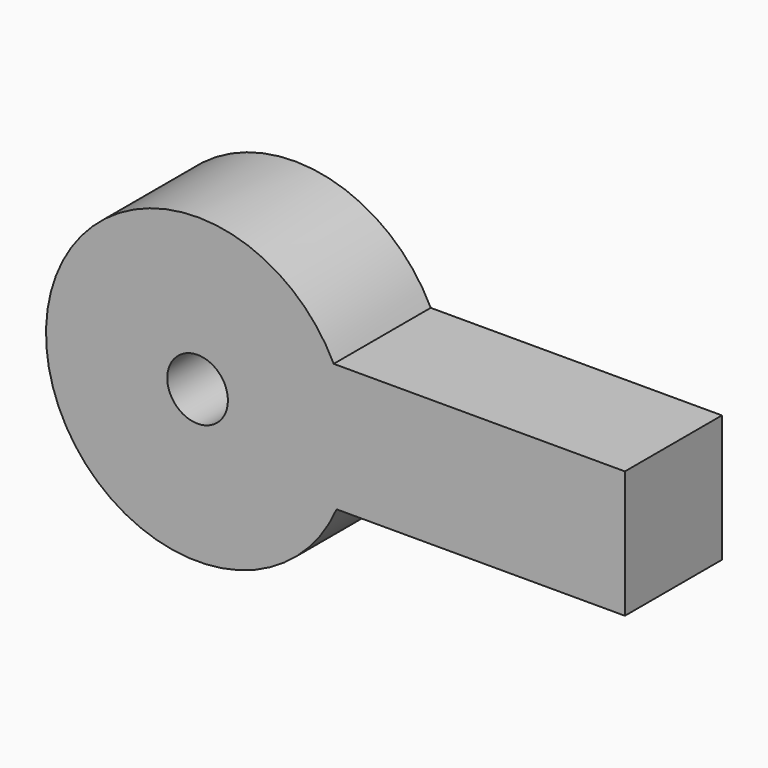
from build123d import *

# Parameters (mm, degrees)
F0_R      = 6.35
F1_DEPTH  = 25.4
F1_FACE_R = 6.35
F2_DEPTH  = 13.97


with BuildPart() as f1:
    # F0 (on Front) → F1 (new body)
    with BuildSketch(Plane.XZ):
        with BuildLine():
            ThreePointArc((29.115278, -12.663454), (31.084342, -6.467318), (31.75, 0))
            ThreePointArc((31.75, 0), (30.930583, 7.166695), (28.514629, 13.963467))
            ThreePointArc((28.514629, 13.963467), (-31.741925, -0.716033), (29.115278, -12.663454))
        make_face()
        Circle(F0_R, mode=Mode.SUBTRACT)
        with BuildLine():
            ThreePointArc((28.514629, 13.963467), (30.930583, 7.166695), (31.75, 0))
            ThreePointArc((31.75, 0), (31.084342, -6.467318), (29.115278, -12.663454))
            Line((29.115278, -12.663454), (89.507588, -12.663454))
            Line((89.507588, -12.663454), (89.507588, 13.963467))
            Line((89.507588, 13.963467), (28.514629, 13.963467))
        make_face()
    extrude(amount=F1_DEPTH)

    # F1_face (on face) → F2 (join)
    with BuildSketch(Plane(origin=(20.425137, -25.4, 0.228165), x_dir=(1, 0, 0), z_dir=(0, -1, 0))):
        with BuildLine():
            ThreePointArc((8.089492, 13.735302), (-52.167062, -0.944198), (8.690141, -12.891619))
            Line((8.690141, -12.891619), (69.082451, -12.891619))
            Line((69.082451, -12.891619), (69.082451, 13.735302))
            Line((69.082451, 13.735302), (8.089492, 13.735302))
        make_face()
        with Locations((-20.425137, -0.228165)):
            Circle(F1_FACE_R, mode=Mode.SUBTRACT)
    extrude(amount=-F2_DEPTH)


solid = f1.part
